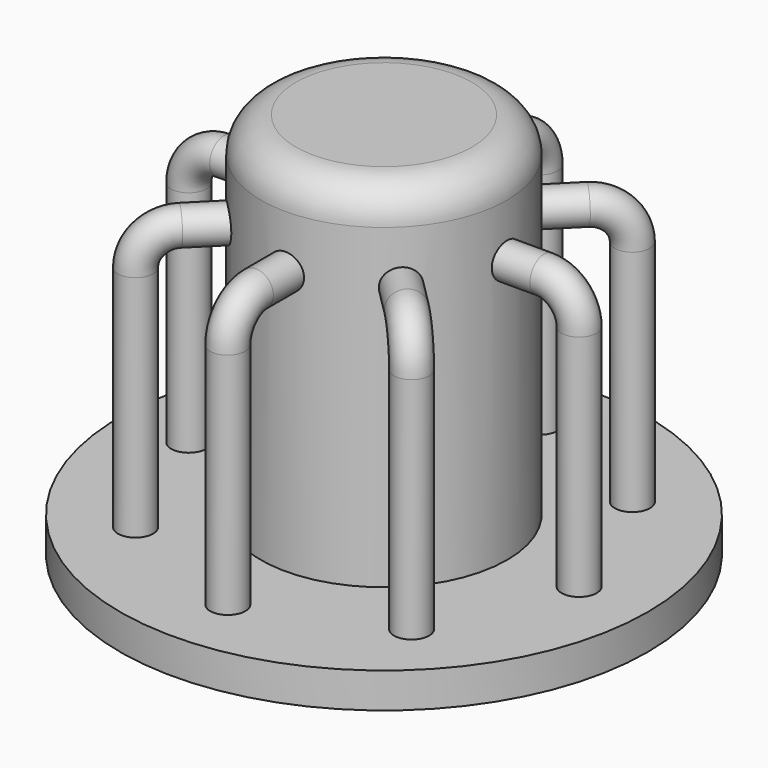
from build123d import *

# Parameters (mm, degrees)
SKETCH_R           = 75
PAD_DEPTH          = 10
SKETCH001_R        = 35
PAD001_DEPTH       = 100
FILLET_R           = 10
SKETCH003_R        = 5
POLARPATTERN_COUNT = 8


with BuildPart() as part:
    # Sketch → Pad (new body)
    with BuildSketch(Plane.XY):
        Circle(SKETCH_R)
    extrude(amount=PAD_DEPTH)

    # Sketch001 (on Face3 of Pad) → Pad001 (join)
    with BuildSketch(Plane.XY.offset(10)):
        Circle(SKETCH001_R)
    extrude(amount=PAD001_DEPTH)

    # Fillet
    fillet_edges = [part.edges().sort_by_distance(p)[0] for p in [
        (-35, 0, 110),
    ]]
    fillet(fillet_edges, radius=FILLET_R)

    # AdditivePipe: sweep along a path in Sketch002
    with BuildLine(Plane.XZ) as additivepipe_path:
        Line((25.461504, 84.951385), (45.510119, 84.951385))
        ThreePointArc((45.510119, 84.951385), (52.5468108157, 82.0366918157), (55.461504, 75))
        Line((55.461504, 75), (55.461504, 10))
    # Sketch003 (on Face3 of Fillet) → AdditivePipe (sweep)
    with BuildSketch(Plane.XY.offset(10)):
        with Locations((55.461504, 0)):
            Circle(SKETCH003_R)
    sweep(path=additivepipe_path.line)

    # PolarPattern: part ×8 about axis
    polarpattern_axis = Axis((0, 0, 0), (0, 0, 1))


with BuildPart() as part_1:
    add(part.part)
    for i in range(1, POLARPATTERN_COUNT):
        add(part.part.rotate(polarpattern_axis, i * 360 / POLARPATTERN_COUNT))


solid = part_1.part
